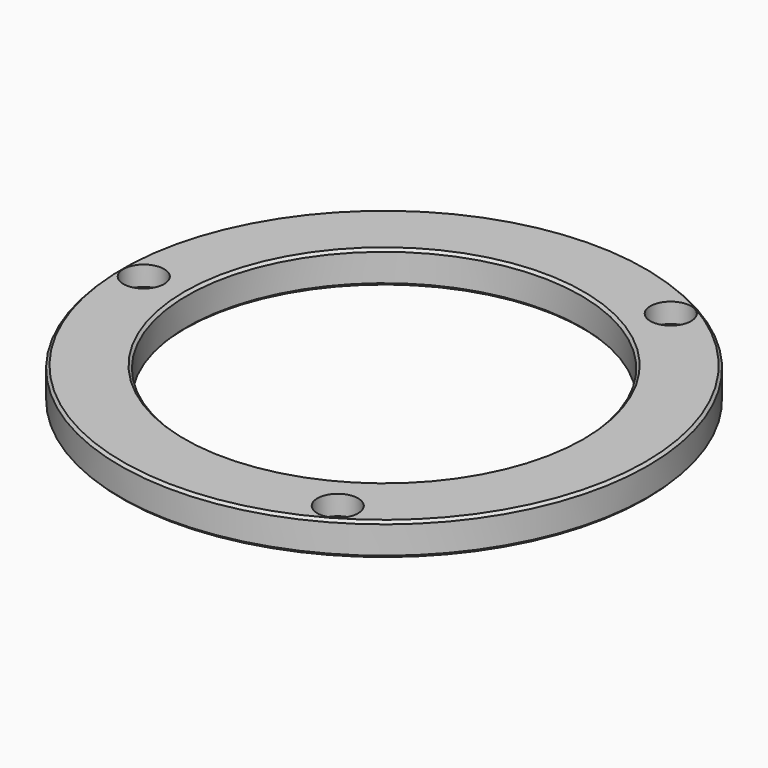
from build123d import *

# Parameters (mm, degrees)
SKETCH_R         = 40.2
SKETCH_R_2       = 30
PAD_DEPTH        = 5
HOLE_D           = 3.6
HOLE_DEPTH       = 5
HOLE_CBORE_D     = 6.2
HOLE_CBORE_DEPTH = 3
CHAMFER_SIZE     = 0.4


with BuildPart() as part:
    # Sketch → Pad (new body)
    with BuildSketch(Plane.XY):
        Circle(SKETCH_R)
        Circle(SKETCH_R_2, mode=Mode.SUBTRACT)
    extrude(amount=PAD_DEPTH)

    # Hole
    with Locations(Plane.XY.offset(5)):
        with Locations((-36.6, 0), (18.3, 31.69653), (18.3, -31.69653)):
            CounterBoreHole(HOLE_D / 2, HOLE_CBORE_D / 2, HOLE_CBORE_DEPTH, depth=HOLE_DEPTH)

    # Chamfer
    chamfer_edges = [part.edges().sort_by_distance(p)[0] for p in [
        (-40.2, 0, 5),
        (-30, 0, 5),
        (-40.2, 0, 0),
        (-30, 0, 0),
    ]]
    chamfer(chamfer_edges, length=CHAMFER_SIZE)


solid = part.part
